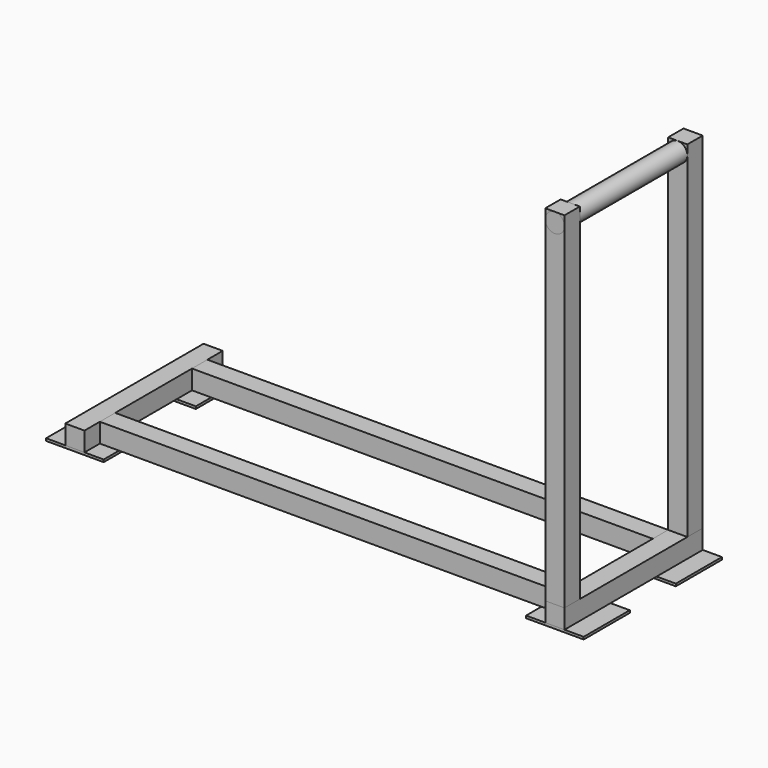
from build123d import *

# Parameters (mm, degrees)
F0_W      = 457.2
F0_H      = 50.8
F1_DEPTH  = 25.4
F2_W      = 1219.2
F2_H      = 50.8
F3_DEPTH  = 50.8
F4_W      = 50.8
F4_H      = 457.2
F5_DEPTH  = 50.8
F6_W      = 152.4
F6_H      = 152.4
F7_DEPTH  = 6.35
F8_W      = 50.8
F8_H      = 50.8
F9_DEPTH  = 914.4
F10_R     = 25.4
F11_DEPTH = 406.4


with BuildPart() as f1:
    # F0 (on Right) → F1 (new body, symmetric)
    with BuildSketch(Plane.YZ):
        Rectangle(F0_W, F0_H)
    extrude(amount=F1_DEPTH, both=True)


with BuildPart() as f3:
    # F2 (on face) → F3 (new body)
    with BuildSketch(Plane.XY.offset(25.4)):
        with Locations((-635, 152.4)):
            Rectangle(F2_W, F2_H)
        with Locations((-635, -152.4)):
            Rectangle(F2_W, F2_H)
    extrude(amount=-F3_DEPTH)


with BuildPart() as f5:
    # F4 (on face) → F5 (new body)
    with BuildSketch(Plane.XY.offset(25.4)):
        with Locations((-1270, 0)):
            Rectangle(F4_W, F4_H)
    extrude(amount=-F5_DEPTH)


with BuildPart() as f7:
    # F6 (on face) → F7 (new body)
    with BuildSketch(Plane(origin=(0, 0, -25.4), x_dir=(1, 0, 0), z_dir=(0, 0, -1))):
        with Locations((-1270, 152.4)):
            Rectangle(F6_W, F6_H)
        with Locations((-1270, -152.4)):
            Rectangle(F6_W, F6_H)
        with Locations((0, 152.4)):
            Rectangle(F6_W, F6_H)
        with Locations((0, -152.4)):
            Rectangle(F6_W, F6_H)
    extrude(amount=F7_DEPTH)


with BuildPart() as f9:
    # F8 (on face) → F9 (new body)
    with BuildSketch(Plane.XY.offset(25.4)):
        with Locations((0, -203.2)):
            Rectangle(F8_W, F8_H)
        with Locations((0, 203.2)):
            Rectangle(F8_W, F8_H)
    extrude(amount=F9_DEPTH)


with BuildPart() as f11:
    # F10 (on face) → F11 (new body)
    with BuildSketch(Plane.XZ.offset(-177.8)):
        with Locations((0, 914.4)):
            Circle(F10_R)
    extrude(amount=F11_DEPTH)


solid = Compound([f1.part, f3.part, f5.part, f7.part, f9.part, f11.part])
